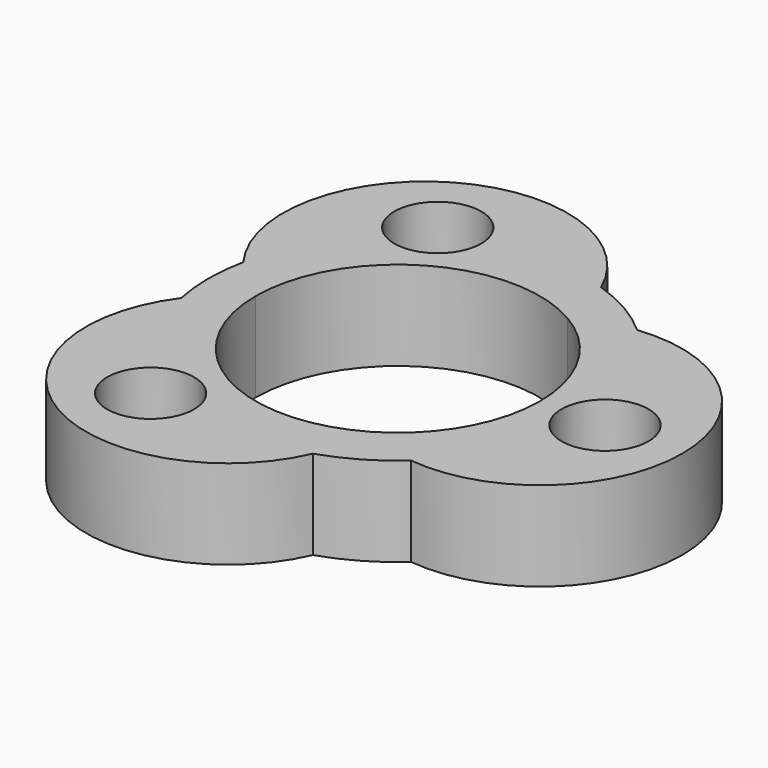
from build123d import *

# Parameters (mm, degrees)
F0_R     = 3.410519
F1_DEPTH = 7


with BuildPart() as f1:
    # F0 (on Top) → F1 (new body)
    with BuildSketch(Plane.XY):
        with BuildLine():
            ThreePointArc((-11.15, 0), (-5.575, 9.656183), (5.575, 9.656183))
            ThreePointArc((5.575, 9.656183), (5.339004, 11.938072), (4.641006, 14.123366))
            ThreePointArc((4.641006, 14.123366), (-11.15, 19.312367), (-14.551697, 3.042454))
            ThreePointArc((-14.551697, 3.042454), (-13.008176, 1.345323), (-11.15, 0))
        make_face()
        with Locations((-8.123896, 14.071)):
            Circle(F0_R, mode=Mode.SUBTRACT)
        with BuildLine():
            ThreePointArc((-14.551697, -3.042454), (-13.008176, -1.345323), (-11.15, 0))
            ThreePointArc((-11.15, 0), (-13.008176, 1.345323), (-14.551697, 3.042454))
            ThreePointArc((-14.551697, 3.042454), (-14.866351, 0), (-14.551697, -3.042454))
        make_face()
        with BuildLine():
            ThreePointArc((4.641006, -14.123366), (5.339004, -11.938072), (5.575, -9.656183))
            ThreePointArc((5.575, -9.656183), (-5.575, -9.656183), (-11.15, 0))
            ThreePointArc((-11.15, 0), (-13.008176, -1.345323), (-14.551697, -3.042454))
            ThreePointArc((-14.551697, -3.042454), (-11.15, -19.312367), (4.641006, -14.123366))
        make_face()
        with Locations((-8.123896, -14.071)):
            Circle(F0_R, mode=Mode.SUBTRACT)
        with BuildLine():
            ThreePointArc((9.91069, -11.080912), (7.669172, -10.592749), (5.575, -9.656183))
            ThreePointArc((5.575, -9.656183), (5.339004, -11.938072), (4.641006, -14.123366))
            ThreePointArc((4.641006, -14.123366), (7.433176, -12.874638), (9.91069, -11.080912))
        make_face()
        with BuildLine():
            ThreePointArc((5.575, 9.656183), (9.656183, 5.575), (11.15, 0))
            ThreePointArc((11.15, 0), (9.656183, -5.575), (5.575, -9.656183))
            ThreePointArc((5.575, -9.656183), (7.669172, -10.592749), (9.91069, -11.080912))
            ThreePointArc((9.91069, -11.080912), (22.3, 0), (9.91069, 11.080912))
            ThreePointArc((9.91069, 11.080912), (7.669172, 10.592749), (5.575, 9.656183))
        make_face()
        with Locations((16.247792, 0)):
            Circle(F0_R, mode=Mode.SUBTRACT)
        with BuildLine():
            ThreePointArc((4.641006, 14.123366), (5.339004, 11.938072), (5.575, 9.656183))
            ThreePointArc((5.575, 9.656183), (7.669172, 10.592749), (9.91069, 11.080912))
            ThreePointArc((9.91069, 11.080912), (7.433176, 12.874638), (4.641006, 14.123366))
        make_face()
    extrude(amount=F1_DEPTH)


solid = f1.part
